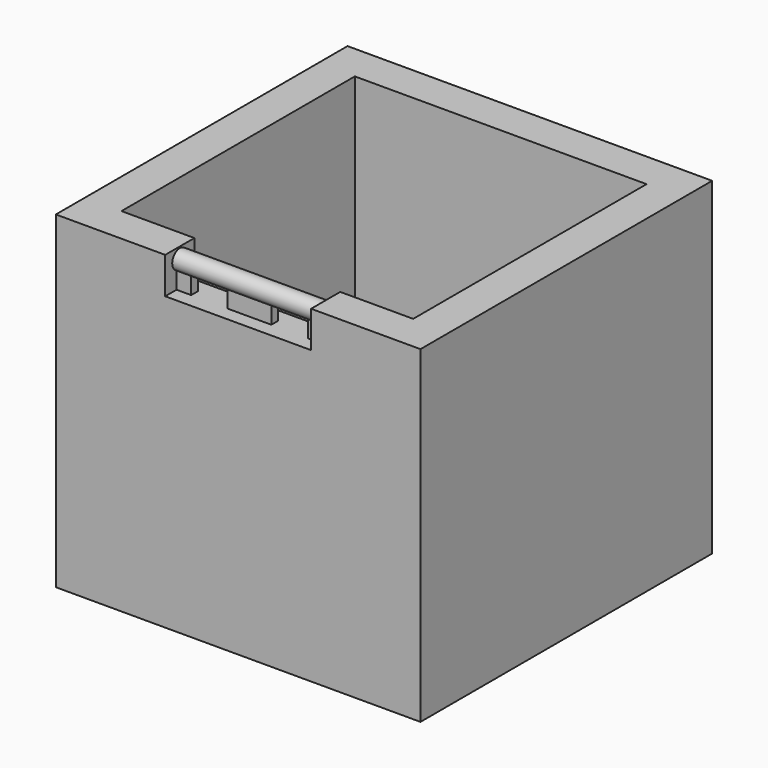
from build123d import *

# Parameters (mm, degrees)
F0_W     = 25.4
F0_H     = 25.4
F0_W_2   = 20.32
F0_H_2   = 20.32
F1_DEPTH = 2.54
F2_DEPTH = 22.86
F3_W     = 10.16
F3_H     = 2.54
F4_DEPTH = 2.54
F6_DEPTH = 10.16
F7_W     = 2.54
F7_H     = 1.1816583352
F8_DEPTH = 2.54


with BuildPart() as f1:
    # F0 (on Top) → F1 (new body)
    with BuildSketch(Plane.XY):
        with Locations((0.373007264, -0.8804095839)):
            Rectangle(F0_W, F0_H)
        with Locations((0.373007264, -0.8804095839)):
            Rectangle(F0_W_2, F0_H_2, mode=Mode.SUBTRACT)
        with Locations((0.373007264, -0.8804095839)):
            Rectangle(F0_W_2, F0_H_2)
    extrude(amount=F1_DEPTH)

    # F0 (on Top) → F2 (join)
    with BuildSketch(Plane.XY):
        with Locations((0.373007264, -0.8804095839)):
            Rectangle(F0_W, F0_H)
        with Locations((0.373007264, -0.8804095839)):
            Rectangle(F0_W_2, F0_H_2, mode=Mode.SUBTRACT)
    extrude(amount=F2_DEPTH)

    # F3 (on face) → F4 (cut)
    with BuildSketch(Plane.XZ.offset(13.5804095839)):
        with Locations((0.373007264, 21.59)):
            Rectangle(F3_W, F3_H)
    extrude(amount=-F4_DEPTH, mode=Mode.SUBTRACT)

    # F5 (on face) → F6 (join)
    with BuildSketch(Plane.YZ.offset(-4.706992736)):
        with BuildLine():
            ThreePointArc((-11.9946550142, 21.5179765421), (-11.742671758, 21.7606545967), (-11.6500095839, 22.098))
            ThreePointArc((-11.6500095839, 22.098), (-12.6630783121, 22.6563483931), (-12.5941432245, 21.5016583352))
            ThreePointArc((-12.5941432245, 21.5016583352), (-12.29244, 21.4378445228), (-11.9946550142, 21.5179765421))
        make_face()
        with BuildLine():
            ThreePointArc((-11.9946550142, 21.5179765421), (-12.29244, 21.4378445228), (-12.5941432245, 21.5016583352))
            Line((-12.5941432245, 21.5016583352), (-12.5941432245, 21.4954577436))
            Line((-12.5941432245, 21.4954577436), (-12.5941432245, 20.32))
            Line((-12.5941432245, 20.32), (-11.9946550142, 20.32))
            Line((-11.9946550142, 20.32), (-11.9946550142, 21.4800578359))
            Line((-11.9946550142, 21.4800578359), (-11.9946550142, 21.5179765421))
        make_face()
    extrude(amount=F6_DEPTH)

    # F7 (on face) → F8 (cut)
    with BuildSketch(Plane.XZ.offset(12.5941432245)):
        with Locations((-2.420992736, 20.9108291676)):
            Rectangle(F7_W, F7_H)
        with Locations((3.167007264, 20.9108291676)):
            Rectangle(F7_W, F7_H)
    extrude(amount=-F8_DEPTH, mode=Mode.SUBTRACT)


solid = f1.part
